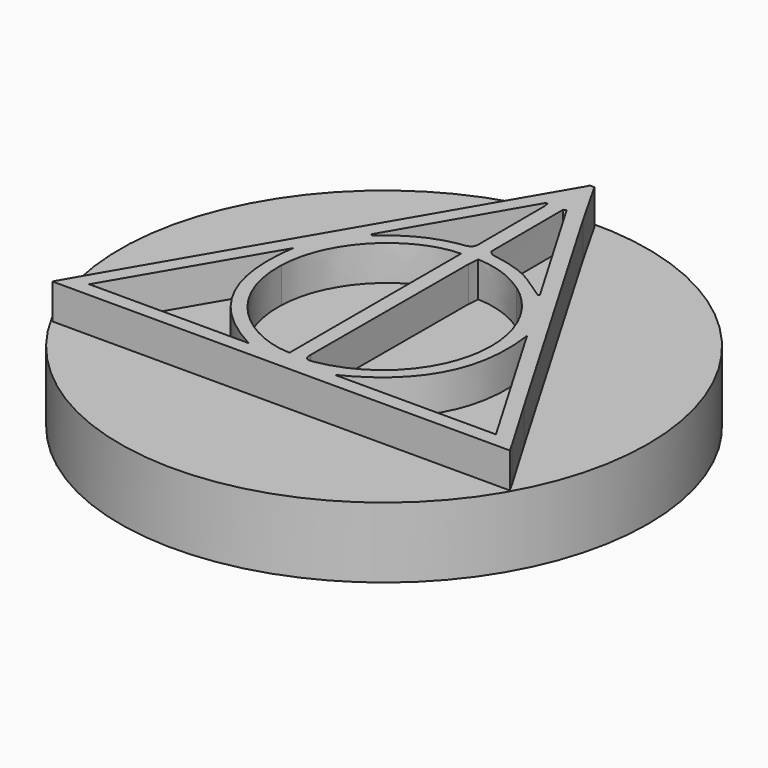
from build123d import *

# Parameters (mm, degrees)
F0_R     = 7.5
F2_DEPTH = 2
F3_DEPTH = 1


with BuildPart() as f2:
    # F0 (on Top) → F2 (new body)
    with BuildSketch(Plane.XY):
        Circle(F0_R)
    extrude(amount=-F2_DEPTH)

    # F1 (on Top) → F3 (join)
    with BuildSketch(Plane.XY):
        with BuildLine():
            add(Edge.make_bspline(
                [(0.0604885835, 7.3933677407), (0.3177365835, 6.9391977407), (0.5701195835, 6.4822377407), (0.8330605835, 6.0315707407)],
                knots=[0, 0, 0, 0, 1, 1, 1, 1], degree=3))
            add(Edge.make_bspline(
                [(-0.0762024165, 7.3933677407), (-0.0304464165, 7.3933677407), (0.0150095835, 7.3933677407), (0.0604885835, 7.3933677407)],
                knots=[0, 0, 0, 0, 1, 1, 1, 1], degree=3))
            add(Edge.make_bspline(
                [(-0.1212204165, 7.2902617407), (-0.1024804165, 7.3224177407), (-0.0909554165, 7.3588837407), (-0.0762024165, 7.3933677407)],
                knots=[0, 0, 0, 0, 1, 1, 1, 1], degree=3))
            add(Edge.make_bspline(
                [(-5.9762144165, -2.7421532593), (-4.0245564165, 0.6020177407), (-2.0726114165, 3.9459087407), (-0.1212204165, 7.2902617407)],
                knots=[0, 0, 0, 0, 1, 1, 1, 1], degree=3))
            add(Edge.make_bspline(
                [(-6.5031424165, -3.6556322593), (-6.3136034165, -3.3269782593), (-6.1463944165, -3.0337092593), (-5.9762144165, -2.7421532593)],
                knots=[0, 0, 0, 0, 1, 1, 1, 1], degree=3))
            add(Edge.make_bspline(
                [(6.4969945835, -3.6556322593), (2.1508305835, -3.6556322593), (-2.1525754165, -3.6556322593), (-6.5031424165, -3.6556322593)],
                knots=[0, 0, 0, 0, 1, 1, 1, 1], degree=3))
            add(Edge.make_bspline(
                [(6.3467955835, -3.3839732593), (6.3915375835, -3.4597902593), (6.4323375835, -3.5381272593), (6.4969945835, -3.6556322593)],
                knots=[0, 0, 0, 0, 1, 1, 1, 1], degree=3))
            add(Edge.make_bspline(
                [(5.4107935835, -1.7983302593), (5.7208275835, -2.3279572593), (6.0352405835, -2.8551552593), (6.3467955835, -3.3839732593)],
                knots=[0, 0, 0, 0, 1, 1, 1, 1], degree=3))
            add(Edge.make_bspline(
                [(0.8330605835, 6.0315707407), (2.3574805835, 3.4207877407), (3.8841375835, 0.8110887407), (5.4107935835, -1.7983302593)],
                knots=[0, 0, 0, 0, 1, 1, 1, 1], degree=3))
        make_face()
        with BuildLine():
            add(Edge.make_bspline(
                [(-5.7796534165, -3.2501722593), (-4.2207504165, -3.2501722593), (-2.7330644165, -3.2501722593), (-1.2455714165, -3.2501722593)],
                knots=[0, 0, 0, 0, 1, 1, 1, 1], degree=3))
            add(Edge.make_bspline(
                [(-3.3280754165, 0.9378677407), (-4.1345774165, -0.4399492593), (-4.9410894165, -1.8178682593), (-5.7796534165, -3.2501722593)],
                knots=[0, 0, 0, 0, 1, 1, 1, 1], degree=3))
            add(Edge.make_bspline(
                [(-1.2455714165, -3.2501722593), (-2.9605984165, -2.3525382593), (-3.6127754165, -0.9545362593), (-3.3280754165, 0.9378677407)],
                knots=[0, 0, 0, 0, 1, 1, 1, 1], degree=3))
        make_face(mode=Mode.SUBTRACT)
        with BuildLine():
            add(Edge.make_bspline(
                [(-0.2542014165, 3.0525277407), (-1.5089494165, 3.0320817407), (-2.9568184165, 1.8495517407), (-3.0198624165, 0.1261557407)],
                knots=[0, 0, 0, 0, 1, 1, 1, 1], degree=3))
            add(Edge.make_bspline(
                [(-0.2542014165, -3.0399232593), (-0.2542014165, -1.0090972593), (-0.2542014165, 1.0216117407), (-0.2542014165, 3.0525277407)],
                knots=[0, 0, 0, 0, 1, 1, 1, 1], degree=3))
            add(Edge.make_bspline(
                [(-3.0198624165, 0.1261557407), (-3.0896374165, -1.7814012593), (-1.4984154165, -3.0158812593), (-0.2542014165, -3.0399232593)],
                knots=[0, 0, 0, 0, 1, 1, 1, 1], degree=3))
        make_face(mode=Mode.SUBTRACT)
        with BuildLine():
            add(Edge.make_bspline(
                [(3.3546825835, 0.8849197407), (3.6216575835, -1.0009142593), (2.9443555835, -2.3765812593), (1.1968255835, -3.2457582593)],
                knots=[0, 0, 0, 0, 1, 1, 1, 1], degree=3))
            add(Edge.make_bspline(
                [(5.7743975835, -3.2457582593), (4.9505145835, -1.8388482593), (4.1524725835, -0.4769692593), (3.3546825835, 0.8849197407)],
                knots=[0, 0, 0, 0, 1, 1, 1, 1], degree=3))
            add(Edge.make_bspline(
                [(1.1968255835, -3.2457582593), (2.7469015835, -3.2457582593), (4.2381755835, -3.2457582593), (5.7743975835, -3.2457582593)],
                knots=[0, 0, 0, 0, 1, 1, 1, 1], degree=3))
        make_face(mode=Mode.SUBTRACT)
        with BuildLine():
            add(Edge.make_bspline(
                [(0.2117715835, 3.0732277407), (0.2032195835, 2.9602327407), (0.1901495835, 2.8641567407), (0.1898735835, 2.7679887407)],
                knots=[0, 0, 0, 0, 1, 1, 1, 1], degree=3))
            add(Edge.make_bspline(
                [(1.7295995835, 2.5419747407), (1.2838885835, 2.8565037407), (0.7887565835, 3.0489087407), (0.2117715835, 3.0732277407)],
                knots=[0, 0, 0, 0, 1, 1, 1, 1], degree=3))
            add(Edge.make_bspline(
                [(2.9614815835, -0.7022442593), (3.2517605835, 0.5176517407), (2.7668865835, 1.8099267407), (1.7295995835, 2.5419747407)],
                knots=[0, 0, 0, 0, 1, 1, 1, 1], degree=3))
            add(Edge.make_bspline(
                [(0.4320915835, -3.0458662593), (1.6893525835, -2.8326462593), (2.6694735835, -1.9292522593), (2.9614815835, -0.7022442593)],
                knots=[0, 0, 0, 0, 1, 1, 1, 1], degree=3))
            add(Edge.make_bspline(
                [(0.1763655835, -2.8243612593), (0.1757435835, -3.0158812593), (0.2339925835, -3.0793612593), (0.4320915835, -3.0458662593)],
                knots=[0, 0, 0, 0, 1, 1, 1, 1], degree=3))
            add(Edge.make_bspline(
                [(0.1898735835, 2.7679887407), (0.1853785835, 0.9039367407), (0.1838565835, -0.9602062593), (0.1763655835, -2.8243612593)],
                knots=[0, 0, 0, 0, 1, 1, 1, 1], degree=3))
        make_face(mode=Mode.SUBTRACT)
        with BuildLine():
            add(Edge.make_bspline(
                [(-2.3909204165, 2.5383797407), (-2.3739784165, 2.5269457407), (-2.3571514165, 2.5151437407), (-2.3404854165, 2.5037107407)],
                knots=[0, 0, 0, 0, 1, 1, 1, 1], degree=3))
            add(Edge.make_bspline(
                [(-0.3082324165, 6.1343087407), (-1.0024544165, 4.9357577407), (-1.6968604165, 3.7371147407), (-2.3909204165, 2.5383797407)],
                knots=[0, 0, 0, 0, 1, 1, 1, 1], degree=3))
            add(Edge.make_bspline(
                [(-0.2558374165, 6.1257567407), (-0.2732874165, 6.1285457407), (-0.2908514165, 6.1315197407), (-0.3082324165, 6.1343087407)],
                knots=[0, 0, 0, 0, 1, 1, 1, 1], degree=3))
            add(Edge.make_bspline(
                [(-0.2339394165, 5.9442317407), (-0.2341234165, 6.0047397407), (-0.2481844165, 6.0652487407), (-0.2558374165, 6.1257567407)],
                knots=[0, 0, 0, 0, 1, 1, 1, 1], degree=3))
            add(Edge.make_bspline(
                [(-0.2276464165, 3.6721807407), (-0.2339394165, 4.4295387407), (-0.2315194165, 5.1869657407), (-0.2339394165, 5.9442317407)],
                knots=[0, 0, 0, 0, 1, 1, 1, 1], degree=3))
            add(Edge.make_bspline(
                [(-0.4507784165, 3.4107147407), (-0.2747394165, 3.4329587407), (-0.2261024165, 3.5076897407), (-0.2276464165, 3.6721807407)],
                knots=[0, 0, 0, 0, 1, 1, 1, 1], degree=3))
            add(Edge.make_bspline(
                [(-2.2525234165, 2.5683687407), (-1.7367614165, 3.0309067407), (-1.1393294165, 3.3233747407), (-0.4507784165, 3.4107147407)],
                knots=[0, 0, 0, 0, 1, 1, 1, 1], degree=3))
            add(Edge.make_bspline(
                [(-2.3404854165, 2.5037107407), (-2.3110494165, 2.5251477407), (-2.2792624165, 2.5439577407), (-2.2525234165, 2.5683687407)],
                knots=[0, 0, 0, 0, 1, 1, 1, 1], degree=3))
        make_face(mode=Mode.SUBTRACT)
        with BuildLine():
            add(Edge.make_bspline(
                [(2.3211755835, 2.5607157407), (2.3334385835, 2.5692677407), (2.3453105835, 2.5780037407), (2.3572965835, 2.5865557407)],
                knots=[0, 0, 0, 0, 1, 1, 1, 1], degree=3))
            add(Edge.make_bspline(
                [(1.6364045835, 3.0178597407), (1.8710625835, 2.8758667407), (2.0933875835, 2.7136807407), (2.3211755835, 2.5607157407)],
                knots=[0, 0, 0, 0, 1, 1, 1, 1], degree=3))
            add(Edge.make_bspline(
                [(0.3738415835, 3.4342957407), (0.8199905835, 3.3685777407), (1.2488745835, 3.2528627407), (1.6364045835, 3.0178597407)],
                knots=[0, 0, 0, 0, 1, 1, 1, 1], degree=3))
            add(Edge.make_bspline(
                [(0.2013985835, 3.5821437407), (0.2018595835, 3.5301877407), (0.3079165835, 3.4442077407), (0.3738415835, 3.4342957407)],
                knots=[0, 0, 0, 0, 1, 1, 1, 1], degree=3))
            add(Edge.make_bspline(
                [(0.1935845835, 6.1167437407), (0.1935845835, 5.2718847407), (0.1904265835, 4.4270257407), (0.2013985835, 3.5821437407)],
                knots=[0, 0, 0, 0, 1, 1, 1, 1], degree=3))
            add(Edge.make_bspline(
                [(0.2710125835, 6.1454647407), (0.2450795835, 6.1359217407), (0.2194245835, 6.1263787407), (0.1935845835, 6.1167437407)],
                knots=[0, 0, 0, 0, 1, 1, 1, 1], degree=3))
            add(Edge.make_bspline(
                [(2.3572965835, 2.5865557407), (1.6618995835, 3.7728667407), (0.9663175835, 4.9591547407), (0.2710125835, 6.1454647407)],
                knots=[0, 0, 0, 0, 1, 1, 1, 1], degree=3))
        make_face(mode=Mode.SUBTRACT)
    extrude(amount=F3_DEPTH)


solid = f2.part
